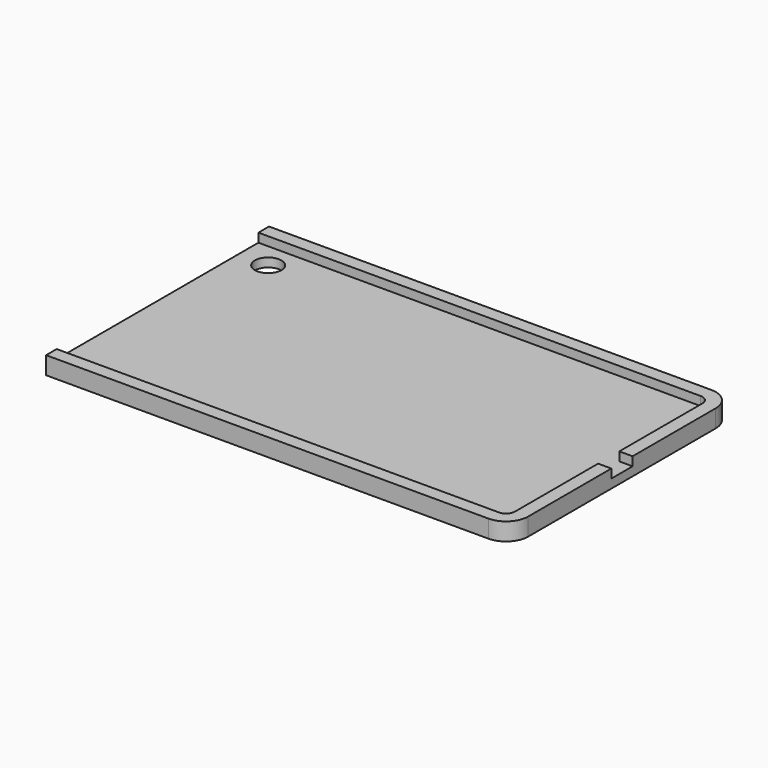
from build123d import *

# Parameters (mm, degrees)
F0_R     = 3
F1_DEPTH = 2
F2_DEPTH = 4
F4_DEPTH = 2
F5_DEPTH = 3


with BuildPart() as f1:
    # F0 (on Top) → F1 (new body)
    with BuildSketch(Plane.XY):
        with Locations((-50.25617, 22.832299)):
            Circle(F0_R)
        with BuildLine():
            Line((-57, -28.5), (43, -28.5))
            ThreePointArc((43, -28.5), (44.414214, -27.914214), (45, -26.5))
            Line((45, -26.5), (45, 26.5))
            ThreePointArc((45, 26.5), (44.414214, 27.914214), (43, 28.5))
            Line((43, 28.5), (-57, 28.5))
            Line((-57, 28.5), (-57, -28.5))
        make_face()
        with Locations((-50.25617, 22.832299)):
            Circle(F0_R, mode=Mode.SUBTRACT)
        with BuildLine():
            ThreePointArc((44, -26.5), (43.707107, -27.207107), (43, -27.5))
            Line((43, -27.5), (-43, -27.5))
            ThreePointArc((-43, -27.5), (-43.707107, -27.207107), (-44, -26.5))
            Line((-44, -26.5), (-44, 26.5))
            ThreePointArc((-44, 26.5), (-43.707107, 27.207107), (-43, 27.5))
            Line((-43, 27.5), (43, 27.5))
            ThreePointArc((43, 27.5), (43.707107, 27.207107), (44, 26.5))
            Line((44, 26.5), (44, -26.5))
        make_face(mode=Mode.SUBTRACT)
        with BuildLine():
            Line((-43, -27.5), (43, -27.5))
            ThreePointArc((43, -27.5), (43.707107, -27.207107), (44, -26.5))
            Line((44, -26.5), (44, 26.5))
            ThreePointArc((44, 26.5), (43.707107, 27.207107), (43, 27.5))
            Line((43, 27.5), (-43, 27.5))
            ThreePointArc((-43, 27.5), (-43.707107, 27.207107), (-44, 26.5))
            Line((-44, 26.5), (-44, -26.5))
            ThreePointArc((-44, -26.5), (-43.707107, -27.207107), (-43, -27.5))
        make_face()
    extrude(amount=F1_DEPTH)

    # F0 (on Top) → F2 (join)
    with BuildSketch(Plane.XY):
        with BuildLine():
            ThreePointArc((45, -26.5), (44.414214, -27.914214), (43, -28.5))
            Line((43, -28.5), (-57, -28.5))
            Line((-57, -28.5), (-57, -31.5))
            Line((-57, -31.5), (43, -31.5))
            ThreePointArc((43, -31.5), (46.535534, -30.035534), (48, -26.5))
            Line((48, -26.5), (48, 26.5))
            ThreePointArc((48, 26.5), (46.535534, 30.035534), (43, 31.5))
            Line((43, 31.5), (-57, 31.5))
            Line((-57, 31.5), (-57, 28.5))
            Line((-57, 28.5), (43, 28.5))
            ThreePointArc((43, 28.5), (44.414214, 27.914214), (45, 26.5))
            Line((45, 26.5), (45, -26.5))
        make_face()
    extrude(amount=F2_DEPTH)

    # F3 (on face) → F4 (cut)
    with BuildSketch(Plane.XY.offset(4)):
        Polygon((45, 3), (45, 0), (45, -3), (48, -3), (48, 0), (48, 3), align=None)
    extrude(amount=-F4_DEPTH, mode=Mode.SUBTRACT)

    # F0 (on Top) → F5 (cut)
    with BuildSketch(Plane.XY):
        with Locations((-50.25617, 22.832299)):
            Circle(F0_R)
    extrude(amount=F5_DEPTH, mode=Mode.SUBTRACT)


solid = f1.part
